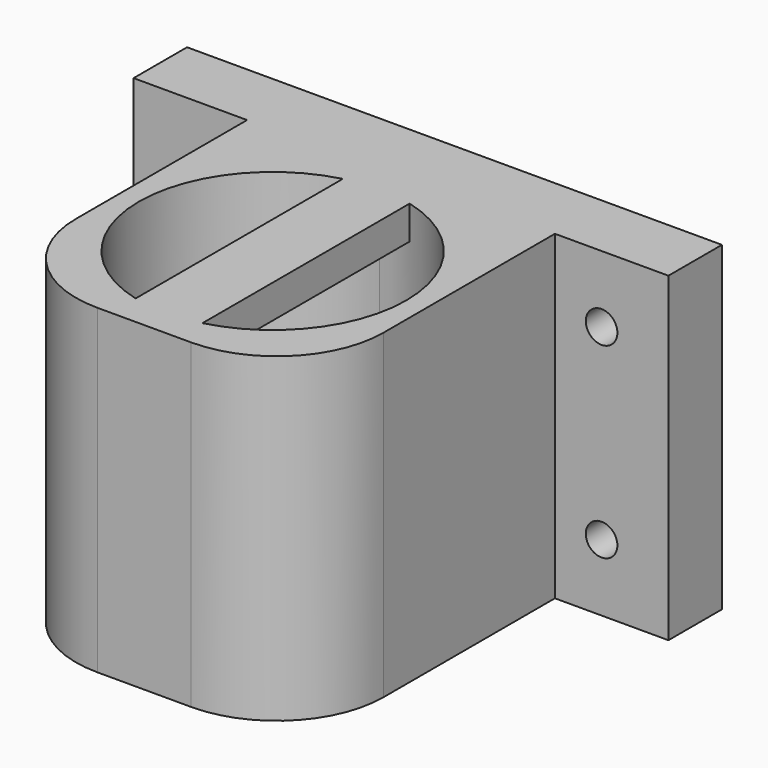
from build123d import *

# Parameters (mm, degrees)
F0_W      = 50.8
F0_H      = 30.48
F1_DEPTH  = 6.35
F2_R      = 1.5
F3_DEPTH  = 6.35
F4_W      = 29.2354
F4_H      = 30.48
F5_DEPTH  = 30.48
F7_DEPTH  = 30.48
F8_R      = 10.16
F9_W      = 6.35
F9_H      = 36.83
F10_DEPTH = 3.175


with BuildPart() as f1:
    # F0 (on Front) → F1 (new body)
    with BuildSketch(Plane.XZ):
        Rectangle(F0_W, F0_H)
    extrude(amount=F1_DEPTH)

    # F2 (on face) → F3 (cut, through all)
    with BuildSketch(Plane.XZ.offset(6.35)):
        with Locations((-19.05, 8.89)):
            Circle(F2_R)
        with Locations((-19.05, -8.89)):
            Circle(F2_R)
        with Locations((19.05, 8.89)):
            Circle(F2_R)
        with Locations((19.05, -8.89)):
            Circle(F2_R)
    extrude(amount=-F3_DEPTH, mode=Mode.SUBTRACT)

    # F4 (on face) → F5 (join)
    with BuildSketch(Plane.XZ.offset(6.35)):
        Rectangle(F4_W, F4_H)
    extrude(amount=F5_DEPTH)

    # F6 (on face) → F7 (cut, through all)
    with BuildSketch(Plane.XY.offset(15.24)):
        with BuildLine():
            ThreePointArc((12.7, -21.59), (8.980256, -12.609744), (0, -8.89))
            Line((0, -8.89), (0, -34.29))
            ThreePointArc((0, -34.29), (8.980256, -30.570256), (12.7, -21.59))
        make_face()
        with BuildLine():
            Line((0, -34.29), (0, -8.89))
            ThreePointArc((0, -8.89), (-12.7, -21.59), (0, -34.29))
        make_face()
    extrude(amount=-F7_DEPTH, mode=Mode.SUBTRACT)

    # F8
    f8_edges = [f1.edges().sort_by_distance(p)[0] for p in [
        (-14.6177, -36.83, 0),
        (14.6177, -36.83, 0),
    ]]
    fillet(f8_edges, radius=F8_R)

    # F9 (on face) → F10 (join)
    with BuildSketch(Plane.XY.offset(15.24)):
        with Locations((0, -18.415)):
            Rectangle(F9_W, F9_H)
    extrude(amount=-F10_DEPTH)


solid = f1.part
